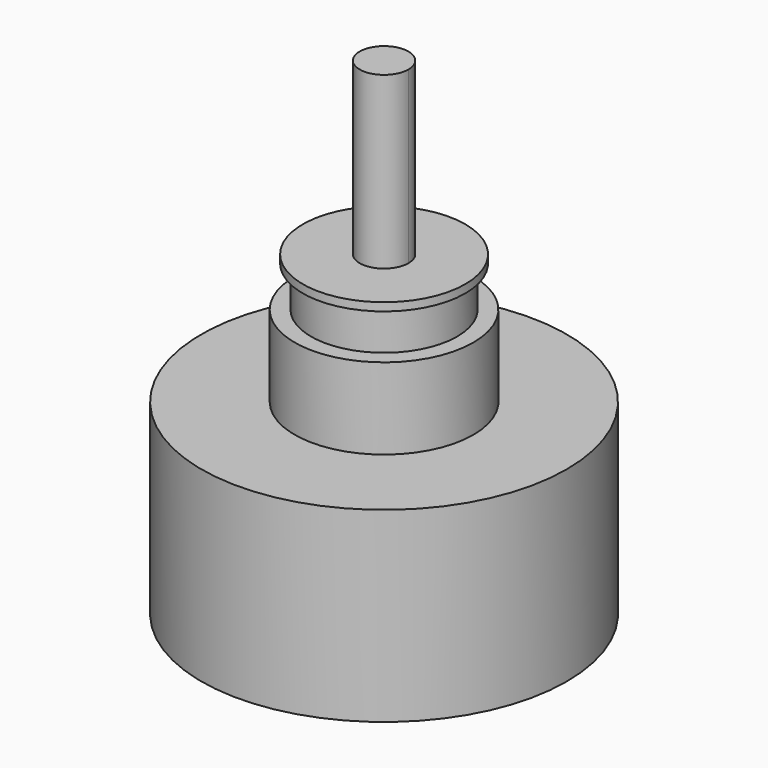
from build123d import *

# Parameters (mm, degrees)
F0_R     = 11.25
F1_DEPTH = 11.5
F2_DEPTH = 30
F3_START = 22
F3_DEPTH = 3.25
F4_R     = 5.5
F4_R_2   = 5
F4_R_3   = 4.5
F4_R_4   = 1.5
F5_DEPTH = 8
F6_START = 5
F6_DEPTH = 3
F7_START = 5
F7_DEPTH = 2.5
F9_DEPTH = 4.3


with BuildPart() as f1:
    # F0 (on Top) → F1 (new body)
    with BuildSketch(Plane.XY):
        Circle(F0_R)
        with BuildLine():
            ThreePointArc((1.2147427711, 0.88), (1.4269047194, 0.4625396433), (1.5, 0))
            ThreePointArc((1.5, 0), (-0.4625396433, -1.4269047194), (-1.2147427711, 0.88))
            ThreePointArc((-1.2147427711, 0.88), (0, 1.5), (1.2147427711, 0.88))
        make_face(mode=Mode.SUBTRACT)
        Circle(F0_R)
        with BuildLine():
            ThreePointArc((1.2147427711, 0.88), (1.4269047194, 0.4625396433), (1.5, 0))
            ThreePointArc((1.5, 0), (-0.4625396433, -1.4269047194), (-1.2147427711, 0.88))
            ThreePointArc((-1.2147427711, 0.88), (0, 1.5), (1.2147427711, 0.88))
        make_face(mode=Mode.SUBTRACT)
    extrude(amount=F1_DEPTH)

    # F0 (on Top) → F2 (join)
    with BuildSketch(Plane.XY):
        with BuildLine():
            Line((-1.2147427711, 0.88), (1.2147427711, 0.88))
            ThreePointArc((1.2147427711, 0.88), (0, 1.5), (-1.2147427711, 0.88))
        make_face()
        with BuildLine():
            ThreePointArc((-1.2147427711, 0.88), (-0.4625396433, -1.4269047194), (1.5, 0))
            ThreePointArc((1.5, 0), (1.4269047194, 0.4625396433), (1.2147427711, 0.88))
            Line((1.2147427711, 0.88), (-1.2147427711, 0.88))
        make_face()
    extrude(amount=F2_DEPTH)

    # F0 (on Top) → F3 (cut)
    with BuildSketch(Plane.XY.offset(F3_START)):
        with BuildLine():
            Line((-1.2147427711, 0.88), (1.2147427711, 0.88))
            ThreePointArc((1.2147427711, 0.88), (0, 1.5), (-1.2147427711, 0.88))
        make_face()
    extrude(amount=F3_DEPTH, mode=Mode.SUBTRACT)

    # F8 (on face) → F9 (join)
    with BuildSketch(Plane(origin=(0, 0, 0), x_dir=(1, 0, 0), z_dir=(0, 0, -1))):
        with BuildLine():
            ThreePointArc((1.7860571099, -0.9), (1.9457793066, -0.4625396092), (2, 0))
            ThreePointArc((2, 0), (-0.4625396092, 1.9457793066), (-1.7860571099, -0.9))
            Line((-1.7860571099, -0.9), (1.7860571099, -0.9))
        make_face()
    extrude(amount=F9_DEPTH)


with BuildPart() as f5:
    # F4 (on face) → F5 (new body)
    with BuildSketch(Plane.XY.offset(11.5)):
        Circle(F4_R)
        Circle(F4_R_2, mode=Mode.SUBTRACT)
        Circle(F4_R_2)
        Circle(F4_R_3, mode=Mode.SUBTRACT)
        Circle(F4_R_3)
        Circle(F4_R_4, mode=Mode.SUBTRACT)
    extrude(amount=F5_DEPTH)

    # F4 (on face) → F6 (cut)
    with BuildSketch(Plane.XY.offset(11.5).offset(F6_START)):
        Circle(F4_R)
        Circle(F4_R_2, mode=Mode.SUBTRACT)
    extrude(amount=F6_DEPTH, mode=Mode.SUBTRACT)

    # F4 (on face) → F7 (cut)
    with BuildSketch(Plane.XY.offset(11.5).offset(F7_START)):
        Circle(F4_R_2)
        Circle(F4_R_3, mode=Mode.SUBTRACT)
    extrude(amount=F7_DEPTH, mode=Mode.SUBTRACT)


solid = Compound([f1.part, f5.part])
